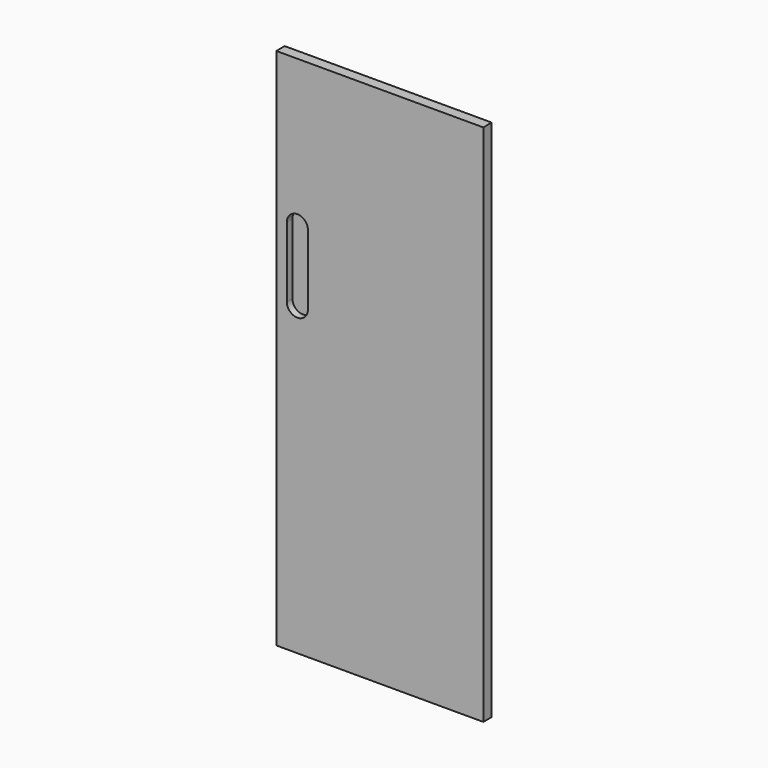
from build123d import *

# Parameters (mm, degrees)
F0_W     = 295
F0_H     = 746
F1_DEPTH = 15
F3_DEPTH = 10


with BuildPart() as f1:
    # F0 (on Front) → F1 (new body)
    with BuildSketch(Plane.XZ):
        with Locations((147.5, -373)):
            Rectangle(F0_W, F0_H)
    extrude(amount=F1_DEPTH)

    # F2 (on face) → F3 (cut)
    with BuildSketch(Plane.XZ.offset(15)):
        with BuildLine():
            ThreePointArc((15, -310), (30, -325), (45, -310))
            ThreePointArc((45, -310), (30, -295), (15, -310))
        make_face()
        with BuildLine():
            Line((45, -310), (45, -210))
            ThreePointArc((45, -210), (30, -225), (15, -210))
            Line((15, -210), (15, -310))
            ThreePointArc((15, -310), (30, -295), (45, -310))
        make_face()
        with BuildLine():
            ThreePointArc((15, -210), (30, -225), (45, -210))
            ThreePointArc((45, -210), (30, -195), (15, -210))
        make_face()
    extrude(amount=-F3_DEPTH, mode=Mode.SUBTRACT)


solid = f1.part
